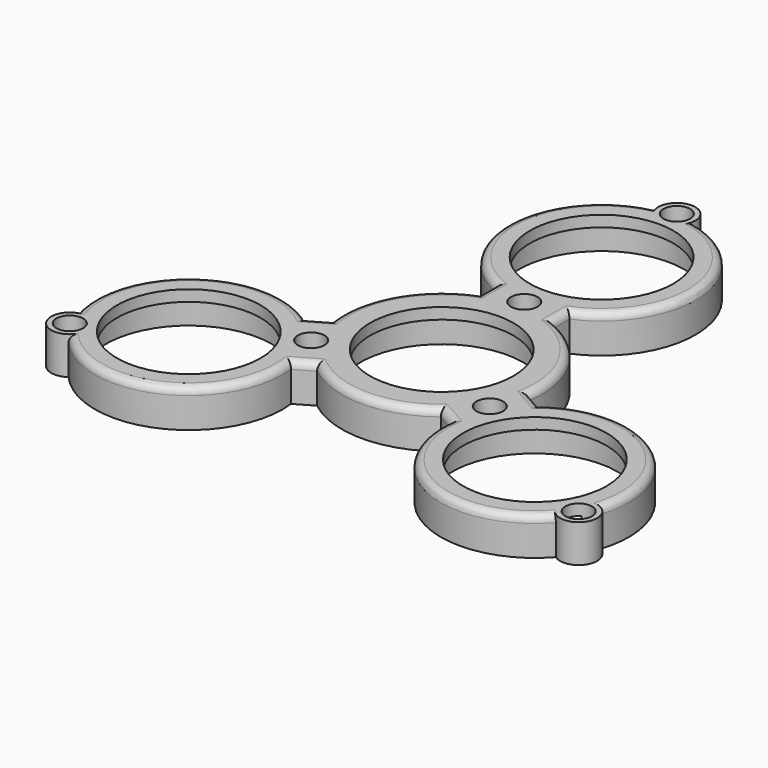
from build123d import *

# Parameters (mm, degrees)
F0_R     = 11
F0_R_2   = 11.2
F1_DEPTH = 3.6
F2_R     = 11.2
F2_R_2   = 11
F2_R_3   = 9.7
F3_DEPTH = 1.5
F4_R     = 1.8
F5_DEPTH = 2
F6_R     = 0.9
F7_DEPTH = 5.1
F8_R     = 1


with BuildPart() as f1:
    # F0 (on Top) → F1 (new body)
    with BuildSketch(Plane.XY):
        with BuildLine():
            ThreePointArc((-2.4878611303, 39.4539370079), (-12.6317197215, 28.3151642022), (-5, 15.3256691841))
            Line((-5, 15.3256691841), (-5, 12.539936204))
            ThreePointArc((-5, 12.539936204), (-11.6913429511, 6.75), (-13.3599033145, -1.9398410831))
            ThreePointArc((-13.3599033145, -1.9398410831), (-11.6913429511, -6.75), (-8.3599033145, -10.6000951209))
            ThreePointArc((-8.3599033145, -10.6000951209), (0, -13.5), (8.3599033145, -10.6000951209))
            ThreePointArc((8.3599033145, -10.6000951209), (11.6913429511, -6.75), (13.3599033145, -1.9398410831))
            ThreePointArc((13.3599033145, -1.9398410831), (11.6913429511, 6.75), (5, 12.539936204))
            Line((5, 12.539936204), (5, 15.3256691841))
            ThreePointArc((5, 15.3256691841), (12.6317197215, 28.3151642022), (2.4878611303, 39.4539370079))
            ThreePointArc((2.4878611303, 39.4539370079), (0, 42.2), (-2.4878611303, 39.4539370079))
        make_face()
        Circle(F0_R, mode=Mode.SUBTRACT)
        with Locations((0, 27)):
            Circle(F0_R_2, mode=Mode.SUBTRACT)
        with BuildLine():
            ThreePointArc((-8.3599033145, -10.6000951209), (-11.6913429511, -6.75), (-13.3599033145, -1.9398410831))
            Line((-13.3599033145, -1.9398410831), (-15.7724188434, -3.3327075731))
            ThreePointArc((-15.7724188434, -3.3327075731), (-30.8375113722, -3.2181919288), (-35.4120422933, -17.572417564))
            ThreePointArc((-35.4120422933, -17.572417564), (-36.5462720397, -21.1), (-32.924181163, -21.8815194439))
            ThreePointArc((-32.924181163, -21.8815194439), (-18.2057916507, -25.0969722734), (-10.7724188434, -11.992961611))
            Line((-10.7724188434, -11.992961611), (-8.3599033145, -10.6000951209))
        make_face()
        with Locations((-23.3826859022, -13.5)):
            Circle(F0_R_2, mode=Mode.SUBTRACT)
        with BuildLine():
            ThreePointArc((13.3599033145, -1.9398410831), (11.6913429511, -6.75), (8.3599033145, -10.6000951209))
            Line((8.3599033145, -10.6000951209), (10.7724188434, -11.992961611))
            ThreePointArc((10.7724188434, -11.992961611), (18.2057916507, -25.0969722734), (32.924181163, -21.8815194439))
            ThreePointArc((32.924181163, -21.8815194439), (36.5462720397, -21.1), (35.4120422933, -17.572417564))
            ThreePointArc((35.4120422933, -17.572417564), (30.8375113722, -3.2181919288), (15.7724188434, -3.3327075731))
            Line((15.7724188434, -3.3327075731), (13.3599033145, -1.9398410831))
        make_face()
        with Locations((23.3826859022, -13.5)):
            Circle(F0_R_2, mode=Mode.SUBTRACT)
    extrude(amount=F1_DEPTH)

    # F2 (on face) → F3 (join)
    with BuildSketch(Plane.XY.offset(3.6)):
        with BuildLine():
            Line((5, 12.539936204), (5, 15.3256691841))
            ThreePointArc((5, 15.3256691841), (12.6317197215, 28.3151642022), (2.4878611303, 39.4539370079))
            ThreePointArc((2.4878611303, 39.4539370079), (0, 42.2), (-2.4878611303, 39.4539370079))
            ThreePointArc((-2.4878611303, 39.4539370079), (-12.6317197215, 28.3151642022), (-5, 15.3256691841))
            Line((-5, 15.3256691841), (-5, 12.539936204))
            ThreePointArc((-5, 12.539936204), (-11.6913429511, 6.75), (-13.3599033145, -1.9398410831))
            Line((-13.3599033145, -1.9398410831), (-15.7724188434, -3.3327075731))
            ThreePointArc((-15.7724188434, -3.3327075731), (-30.8375113722, -3.2181919288), (-35.4120422933, -17.572417564))
            ThreePointArc((-35.4120422933, -17.572417564), (-36.5462720397, -21.1), (-32.924181163, -21.8815194439))
            ThreePointArc((-32.924181163, -21.8815194439), (-18.2057916507, -25.0969722734), (-10.7724188434, -11.992961611))
            Line((-10.7724188434, -11.992961611), (-8.3599033145, -10.6000951209))
            ThreePointArc((-8.3599033145, -10.6000951209), (0, -13.5), (8.3599033145, -10.6000951209))
            Line((8.3599033145, -10.6000951209), (10.7724188434, -11.992961611))
            ThreePointArc((10.7724188434, -11.992961611), (18.2057916507, -25.0969722734), (32.924181163, -21.8815194439))
            ThreePointArc((32.924181163, -21.8815194439), (36.5462720397, -21.1), (35.4120422933, -17.572417564))
            ThreePointArc((35.4120422933, -17.572417564), (30.8375113722, -3.2181919288), (15.7724188434, -3.3327075731))
            Line((15.7724188434, -3.3327075731), (13.3599033145, -1.9398410831))
            ThreePointArc((13.3599033145, -1.9398410831), (11.6913429511, 6.75), (5, 12.539936204))
        make_face()
        with Locations((-23.3826859022, -13.5)):
            Circle(F2_R, mode=Mode.SUBTRACT)
        with Locations((23.3826859022, -13.5)):
            Circle(F2_R, mode=Mode.SUBTRACT)
        Circle(F2_R_2, mode=Mode.SUBTRACT)
        with Locations((0, 27)):
            Circle(F2_R, mode=Mode.SUBTRACT)
        with Locations((0, 27)):
            Circle(F2_R)
        with Locations((0, 27)):
            Circle(F2_R_3, mode=Mode.SUBTRACT)
        with Locations((-23.3826859022, -13.5)):
            Circle(F2_R)
        with Locations((-23.3826859022, -13.5)):
            Circle(F2_R_3, mode=Mode.SUBTRACT)
        with Locations((23.3826859022, -13.5)):
            Circle(F2_R)
        with Locations((23.3826859022, -13.5)):
            Circle(F2_R_3, mode=Mode.SUBTRACT)
        Circle(F2_R_2)
        Circle(F2_R_3, mode=Mode.SUBTRACT)
    extrude(amount=F3_DEPTH)

    # F4 (on face) → F5 (cut)
    with BuildSketch(Plane.XY.offset(5.1)):
        with Locations((0, 39.7)):
            Circle(F4_R)
        with Locations((0, 13.932802694)):
            Circle(F4_R)
        with Locations((-12.0661610789, -6.966401347)):
            Circle(F4_R)
        with Locations((-34.3812085302, -19.85)):
            Circle(F4_R)
        with Locations((12.0661610789, -6.966401347)):
            Circle(F4_R)
        with Locations((34.3812085302, -19.85)):
            Circle(F4_R)
    extrude(amount=-F5_DEPTH, mode=Mode.SUBTRACT)

    # F6 (on face) → F7 (cut, through all)
    with BuildSketch(Plane.XY.offset(5.1)):
        with Locations((0, 39.7)):
            Circle(F6_R)
        with Locations((0, 13.932802694)):
            Circle(F6_R)
        with Locations((-12.0661610789, -6.966401347)):
            Circle(F6_R)
        with Locations((-34.3812085302, -19.85)):
            Circle(F6_R)
        with Locations((12.0661610789, -6.966401347)):
            Circle(F6_R)
        with Locations((34.3812085302, -19.85)):
            Circle(F6_R)
    extrude(amount=-F7_DEPTH, mode=Mode.SUBTRACT)

    # F8
    f8_edges = [f1.edges().sort_by_distance(p)[0] for p in [
        (-18.205792, -25.096972, 5.1),
        (-9.566161, -11.296528, 5.1),
        (0, -13.5, 5.1),
        (9.566161, -11.296528, 5.1),
        (18.205792, -25.096972, 5.1),
        (30.837511, -3.218192, 5.1),
        (14.566161, -2.636274, 5.1),
        (11.691343, 6.75, 5.1),
        (5, 13.932803, 5.1),
        (12.63172, 28.315164, 5.1),
        (-12.63172, 28.315164, 5.1),
        (-5, 13.932803, 5.1),
        (-11.691343, 6.75, 5.1),
        (-14.566161, -2.636274, 5.1),
        (-30.837511, -3.218192, 5.1),
    ]]
    fillet(f8_edges, radius=F8_R)


solid = f1.part
